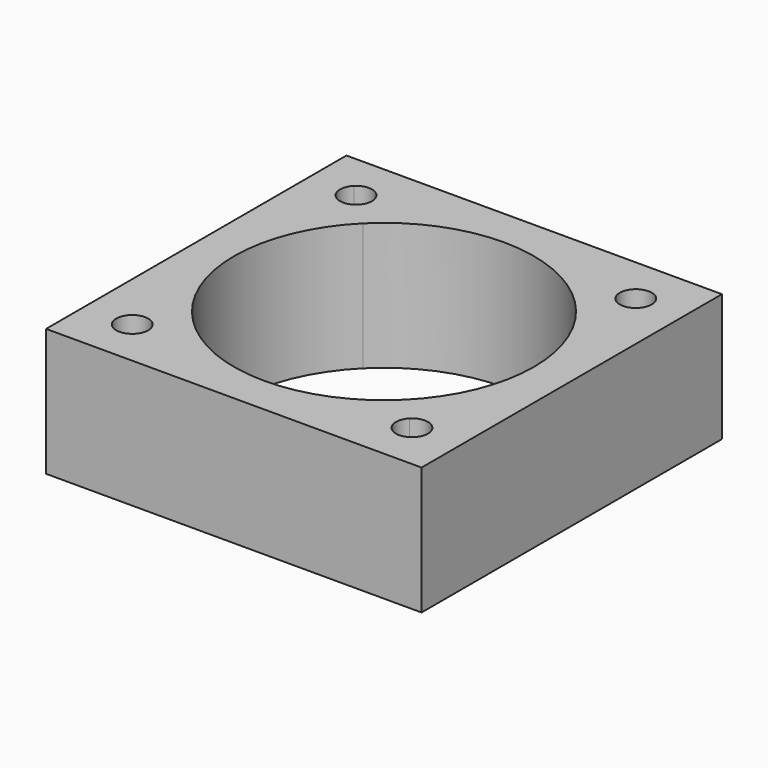
from build123d import *

# Parameters (mm, degrees)
F1_DEPTH = 508


with BuildPart() as f1:
    # F0 (on Top) → F1 (new body)
    with BuildSketch(Plane.XY):
        with BuildLine():
            ThreePointArc((620.27588, 556.77588), (532.475482, 615.44223), (511.874599, 511.874599))
            ThreePointArc((511.874599, 511.874599), (581.076277, 498.109529), (620.27588, 556.77588))
        make_face()
        with BuildLine():
            ThreePointArc((422.072038, 422.072038), (551.463693, 228.423741), (596.9, 0))
            ThreePointArc((596.9, 0), (551.463693, -228.423741), (422.072038, -422.072038))
            Line((422.072038, -422.072038), (511.874599, -511.874599))
            ThreePointArc((511.874599, -511.874599), (581.076277, -498.109529), (620.27588, -556.77588))
            ThreePointArc((620.27588, -556.77588), (615.44223, -581.076277), (601.67716, -601.67716))
            Line((601.67716, -601.67716), (747.27588, -747.27588))
            Line((747.27588, -747.27588), (747.27588, 747.27588))
            Line((747.27588, 747.27588), (-747.27588, 747.27588))
            Line((-747.27588, 747.27588), (-601.67716, 601.67716))
            ThreePointArc((-601.67716, 601.67716), (-532.475482, 615.44223), (-493.27588, 556.77588))
            ThreePointArc((-493.27588, 556.77588), (-498.109529, 532.475482), (-511.874599, 511.874599))
            Line((-511.874599, 511.874599), (-422.072038, 422.072038))
            ThreePointArc((-422.072038, 422.072038), (0, 596.9), (422.072038, 422.072038))
        make_face()
        with BuildLine():
            ThreePointArc((620.27588, 556.77588), (581.076277, 498.109529), (511.874599, 511.874599))
            ThreePointArc((511.874599, 511.874599), (532.475482, 615.44223), (620.27588, 556.77588))
        make_face(mode=Mode.SUBTRACT)
        with BuildLine():
            ThreePointArc((-493.27588, -556.77588), (-498.109529, -532.475482), (-511.874599, -511.874599))
            ThreePointArc((-511.874599, -511.874599), (-615.44223, -581.076277), (-493.27588, -556.77588))
        make_face()
        with BuildLine():
            Line((511.874599, -511.874599), (422.072038, -422.072038))
            ThreePointArc((422.072038, -422.072038), (0, -596.9), (-422.072038, -422.072038))
            ThreePointArc((-422.072038, -422.072038), (-596.9, 0), (-422.072038, 422.072038))
            Line((-422.072038, 422.072038), (-511.874599, 511.874599))
            ThreePointArc((-511.874599, 511.874599), (-601.67716, 511.874599), (-601.67716, 601.67716))
            Line((-601.67716, 601.67716), (-747.27588, 747.27588))
            Line((-747.27588, 747.27588), (-747.27588, -747.27588))
            Line((-747.27588, -747.27588), (747.27588, -747.27588))
            Line((747.27588, -747.27588), (601.67716, -601.67716))
            ThreePointArc((601.67716, -601.67716), (511.874599, -601.67716), (511.874599, -511.874599))
        make_face()
        with BuildLine():
            ThreePointArc((-493.27588, -556.77588), (-615.44223, -581.076277), (-511.874599, -511.874599))
            ThreePointArc((-511.874599, -511.874599), (-498.109529, -532.475482), (-493.27588, -556.77588))
        make_face(mode=Mode.SUBTRACT)
    extrude(amount=F1_DEPTH)


solid = f1.part
